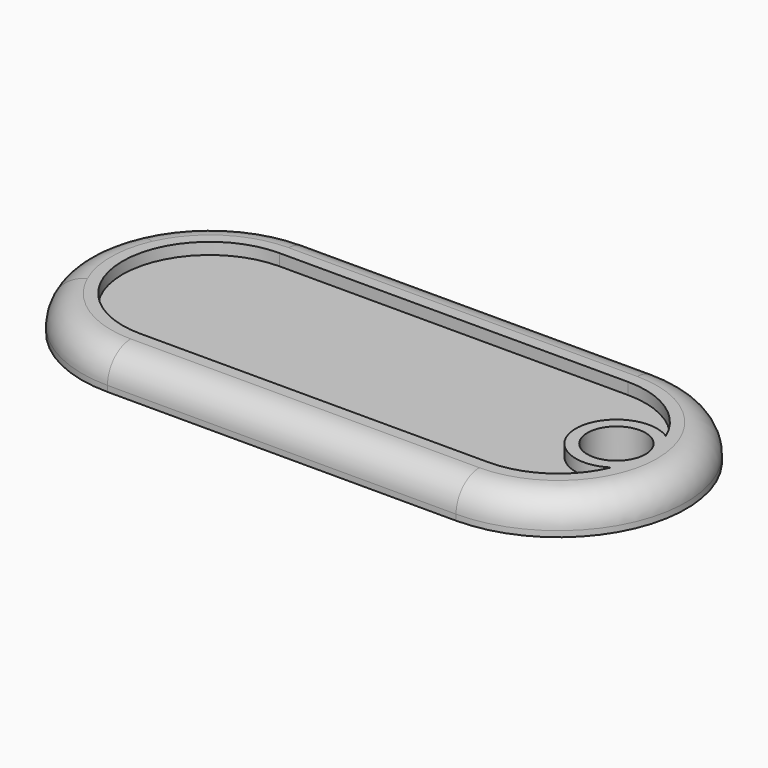
from build123d import *

# Parameters (mm, degrees)
F0_R     = 2.5
F1_DEPTH = 3
F2_R     = 2.5
F3_DEPTH = 1
F5_DEPTH = 1


with BuildPart() as f1:
    # F0 (on Top) → F1 (new body)
    with BuildSketch(Plane.XY):
        with BuildLine():
            Line((-10.03743, -4.5), (-10.03743, 4.5))
            ThreePointArc((-10.03743, 4.5), (-11, 0), (-10.03743, -4.5))
        make_face()
        with BuildLine():
            ThreePointArc((-6.78233, -3.75), (-7.75, 0), (-6.78233, 3.75))
            Line((-6.78233, 3.75), (-10.03743, 4.5))
            Line((-10.03743, 4.5), (-10.03743, -4.5))
            Line((-10.03743, -4.5), (-6.78233, -3.75))
        make_face()
        with BuildLine():
            ThreePointArc((-6.78233, 3.75), (1.93642, 7.504184), (7.75, 0))
            ThreePointArc((7.75, 0), (1.93642, -7.504184), (-6.78233, -3.75))
            Line((-6.78233, -3.75), (-10.03743, -4.5))
            ThreePointArc((-10.03743, -4.5), (-5.97913, -9.233093), (0, -11))
            Line((0, -11), (30, -11))
            ThreePointArc((30, -11), (41, 0), (30, 11))
            Line((30, 11), (0, 11))
            ThreePointArc((0, 11), (-5.97913, 9.233093), (-10.03743, 4.5))
            Line((-10.03743, 4.5), (-6.78233, 3.75))
        make_face()
        with Locations((35, 0)):
            Circle(F0_R, mode=Mode.SUBTRACT)
        with BuildLine():
            Line((-6.78233, -3.75), (-6.78233, 3.75))
            ThreePointArc((-6.78233, 3.75), (-7.75, 0), (-6.78233, -3.75))
        make_face()
        with BuildLine():
            ThreePointArc((-6.78233, -3.75), (1.93642, -7.504184), (7.75, 0))
            ThreePointArc((7.75, 0), (1.93642, 7.504184), (-6.78233, 3.75))
            Line((-6.78233, 3.75), (-6.78233, -3.75))
        make_face()
    extrude(amount=F1_DEPTH)

    # F2
    f2_edges = [f1.edges().sort_by_distance(p)[0] for p in [
        (-11, 0, 3),
    ]]
    fillet(f2_edges, radius=F2_R)

    # F0 (on Top) → F3 (cut)
    with BuildSketch(Plane.XY):
        with BuildLine():
            Line((-10.03743, -4.5), (-10.03743, 4.5))
            ThreePointArc((-10.03743, 4.5), (-11, 0), (-10.03743, -4.5))
        make_face()
        with BuildLine():
            ThreePointArc((-6.78233, -3.75), (-7.75, 0), (-6.78233, 3.75))
            Line((-6.78233, 3.75), (-10.03743, 4.5))
            Line((-10.03743, 4.5), (-10.03743, -4.5))
            Line((-10.03743, -4.5), (-6.78233, -3.75))
        make_face()
        with BuildLine():
            Line((-6.78233, -3.75), (-6.78233, 3.75))
            ThreePointArc((-6.78233, 3.75), (-7.75, 0), (-6.78233, -3.75))
        make_face()
        with BuildLine():
            ThreePointArc((-6.78233, -3.75), (1.93642, -7.504184), (7.75, 0))
            ThreePointArc((7.75, 0), (1.93642, 7.504184), (-6.78233, 3.75))
            Line((-6.78233, 3.75), (-6.78233, -3.75))
        make_face()
    extrude(amount=F3_DEPTH, mode=Mode.SUBTRACT)

    # F4 (on face) → F5 (cut)
    with BuildSketch(Plane.XY.offset(3)):
        with BuildLine():
            ThreePointArc((36.9, -2.939388), (31.5, 0), (36.9, 2.939388))
            ThreePointArc((36.9, 2.939388), (34.135492, 6.256813), (30, 7.5))
            Line((30, 7.5), (0, 7.5))
            ThreePointArc((0, 7.5), (-7.5, 0), (0, -7.5))
            Line((0, -7.5), (30, -7.5))
            ThreePointArc((30, -7.5), (34.135492, -6.256813), (36.9, -2.939388))
        make_face()
    extrude(amount=-F5_DEPTH, mode=Mode.SUBTRACT)


solid = f1.part
